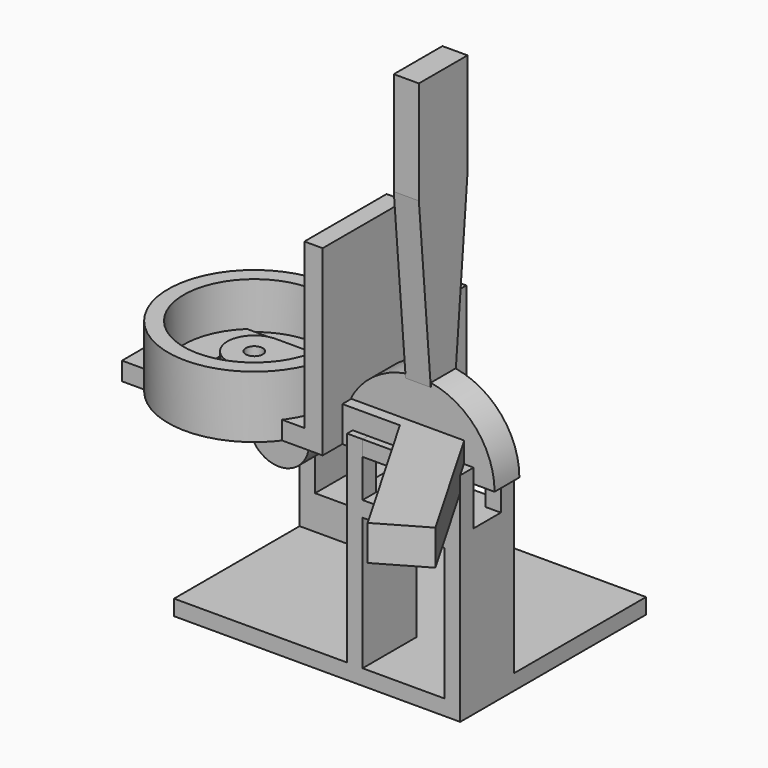
from build123d import *

# Parameters (mm, degrees)
CYLINDER_R                = 1.575
CYLINDER_DEPTH            = 10
CYLINDER001_W             = 12.55
CYLINDER001_H             = 5.1
CYLINDER001_ANGLE         = 180
BOX002_W                  = 4.125
BOX002_H                  = 10
BOX002_DEPTH              = 45
BOX002_ROLL_ANGLE         = -5.000003
BOX002_PLACEMENT_ANGLE    = 180
BOX001_W                  = 4.125
BOX001_H                  = 10
BOX001_DEPTH              = 45
BOX001_PLACEMENT_ANGLE    = 5
BOX_W                     = 4.125
BOX_H                     = 10
BOX_DEPTH                 = 45
CYLINDER006_R             = 0.5
CYLINDER006_DEPTH         = 8.95
CYLINDER004_R             = 2.415
CYLINDER004_DEPTH         = 3.2
CYLINDER002_R             = 11.6
CYLINDER002_DEPTH         = 7.65
BOX003_W                  = 9.93
BOX003_H                  = 4.475
BOX003_DEPTH              = 8
CYLINDER005_R             = 4.965
CYLINDER005_DEPTH         = 4.475
CYLINDER003_R             = 14.15
CYLINDER003_DEPTH         = 10.2
BOX012_W                  = 13.5
BOX012_H                  = 11.1
BOX012_DEPTH              = 2.55
CYLINDER007_R             = 0.5
CYLINDER007_DEPTH         = 12.4
CYLINDER008_R             = 0.5
CYLINDER008_DEPTH         = 12.4
CYLINDER009_R             = 3
CYLINDER009_DEPTH         = 7.65
BOX013_W                  = 18.6
BOX013_H                  = 5.6
BOX013_DEPTH              = 11.35
BOX010_W                  = 2.55
BOX010_H                  = 11.1
BOX010_DEPTH              = 33.15
BOX008_W                  = 13.5
BOX008_H                  = 11.1
BOX008_DEPTH              = 2.55
BOX009_W                  = 47.05
BOX009_H                  = 38.2
BOX009_DEPTH              = 2.55
BOX007_W                  = 12.4
BOX007_H                  = 12.4
BOX007_DEPTH              = 5.6
BOX006_W                  = 2.55
BOX006_H                  = 12.4
BOX006_DEPTH              = 35.5
BOX005_W                  = 2.55
BOX005_H                  = 12.4
BOX005_DEPTH              = 35.5
BOX004_W                  = 12.4
BOX004_H                  = 12.4
BOX004_DEPTH              = 5.6
BOX011_W                  = 2.55
BOX011_H                  = 11.1
BOX011_DEPTH              = 33.15
CYLINDER013_R             = 5.95
CYLINDER013_DEPTH         = 3
BOX016_W                  = 3
BOX016_H                  = 16.9
BOX016_DEPTH              = 30
BOX015_W                  = 30
BOX015_H                  = 16.9
BOX015_DEPTH              = 3
CYLINDER014_R             = 4.4
CYLINDER014_DEPTH         = 5.8
BOX018_W                  = 30
BOX018_H                  = 4.4
BOX018_DEPTH              = 5.8
BOX017_W                  = 30
BOX017_H                  = 4.4
BOX017_DEPTH              = 5.8
FUSION005_PLACEMENT_ANGLE = 300
CYLINDER010_R             = 2.9
CYLINDER010_DEPTH         = 3.8
CYLINDER012_R             = 1.4
CYLINDER012_DEPTH         = 5.8
CYLINDER011_R             = 4.4
CYLINDER011_DEPTH         = 5.8
BOX014_W                  = 30
BOX014_H                  = 8.8
BOX014_DEPTH              = 5.8


with BuildPart() as palancahueco:
    # Cylinder → Cylinder (new body)
    with BuildSketch(Plane.XY):
        Circle(CYLINDER_R)
    extrude(amount=CYLINDER_DEPTH)


with BuildPart() as obj1:
    # Cylinder001 → Cylinder001 (revolve)
    with BuildSketch(Plane(origin=(0, 2.55, 0), x_dir=(1, 0, 0), z_dir=(0, 0, -1))):
        with Locations((6.275, 2.55)):
            Rectangle(CYLINDER001_W, CYLINDER001_H)
    revolve(axis=Axis((0, 2.55, 0), (0, -1, 0)), revolution_arc=CYLINDER001_ANGLE)


with BuildPart() as obj2:
    # Box002 → Box002 (new body)
    with BuildSketch(Plane.XY):
        with Locations((2.0625, 5)):
            Rectangle(BOX002_W, BOX002_H)
    extrude(amount=BOX002_DEPTH)


with BuildPart() as obj2_1:
    # Box002 roll: moved
    add(obj2.part.rotate(Axis((0, 0, 0), (1, 0, 0)), BOX002_ROLL_ANGLE))


with BuildPart() as obj2_2:
    # Box002 placement: moved
    add(obj2_1.part.moved(Location((2.0625, -2.55, 11.7))).rotate(Axis((2.0625, -2.55, 11.7), (0, 0, 1)), BOX002_PLACEMENT_ANGLE))


with BuildPart() as obj3:
    # Box001 → Box001 (new body)
    with BuildSketch(Plane.XY):
        with Locations((2.0625, 5)):
            Rectangle(BOX001_W, BOX001_H)
    extrude(amount=BOX001_DEPTH)


with BuildPart() as obj3_1:
    # Box001 placement: moved
    add(obj3.part.moved(Location((-2.0625, 2.55, 11.7))).rotate(Axis((-2.0625, 2.55, 11.7), (-1, 0, 0)), BOX001_PLACEMENT_ANGLE))


with BuildPart() as palanca:
    # Box → Box (new body)
    with BuildSketch(Plane(origin=(-2.0625, -5, 11.7), x_dir=(1, 0, 0), z_dir=(0, 0, 1))):
        with Locations((2.0625, 5)):
            Rectangle(BOX_W, BOX_H)
    extrude(amount=BOX_DEPTH)

    # Cut: cut obj3
    add(obj3_1.part, mode=Mode.SUBTRACT)

    # Cut001: cut obj2
    add(obj2_2.part, mode=Mode.SUBTRACT)

    # Fusion: union obj1
    add(obj1.part)

    # Cut002: cut PalancaHueco
    add(palancahueco.part, mode=Mode.SUBTRACT)


with BuildPart() as palanca_1:
    # Cut002 placement: moved
    add(palanca.part.moved(Location((29, 0, 0))))


with BuildPart() as obj4:
    # Cylinder006 → Cylinder006 (new body)
    with BuildSketch(Plane(origin=(0, 9.55, -8), x_dir=(1, 0, 0), z_dir=(0, -1, 0))):
        Circle(CYLINDER006_R)
    extrude(amount=CYLINDER006_DEPTH)


with BuildPart() as motorinterior:
    # Cylinder004 → Cylinder004 (new body)
    with BuildSketch(Plane(origin=(0, 9.55, -8), x_dir=(1, 0, 0), z_dir=(0, -1, 0))):
        Circle(CYLINDER004_R)
    extrude(amount=CYLINDER004_DEPTH)


with BuildPart() as obj5:
    # Cylinder002 → Cylinder002 (new body)
    with BuildSketch(Plane.XY.offset(2.55)):
        Circle(CYLINDER002_R)
    extrude(amount=CYLINDER002_DEPTH)


with BuildPart() as radio:
    # Box003 → Box003 (new body)
    with BuildSketch(Plane(origin=(-4.965, 5.075, -8), x_dir=(1, 0, 0), z_dir=(0, 0, 1))):
        with Locations((4.965, 2.2375)):
            Rectangle(BOX003_W, BOX003_H)
    extrude(amount=BOX003_DEPTH)


with BuildPart() as motorexterior:
    # Cylinder005 → Cylinder005 (new body)
    with BuildSketch(Plane(origin=(0, 9.55, -8), x_dir=(1, 0, 0), z_dir=(0, -1, 0))):
        Circle(CYLINDER005_R)
    extrude(amount=CYLINDER005_DEPTH)


with BuildPart() as obj6:
    # Cylinder003 → Cylinder003 (new body)
    with BuildSketch(Plane.XY):
        Circle(CYLINDER003_R)
    extrude(amount=CYLINDER003_DEPTH)

    # Fusion001: union Radio, MotorExterior
    add(radio.part)
    add(motorexterior.part)

    # Cut003: cut obj5
    add(obj5.part, mode=Mode.SUBTRACT)

    # Cut004: cut MotorInterior
    add(motorinterior.part, mode=Mode.SUBTRACT)

    # Cut005: cut obj4
    add(obj4.part, mode=Mode.SUBTRACT)


with BuildPart() as baseswitch001:
    # Box012 → Box012 (new body)
    with BuildSketch(Plane(origin=(22.25, -5.55, 0), x_dir=(1, 0, 0), z_dir=(0, 0, 1))):
        with Locations((6.75, 5.55)):
            Rectangle(BOX012_W, BOX012_H)
    extrude(amount=BOX012_DEPTH)


with BuildPart() as obj7:
    # Cylinder007 → Cylinder007 (new body)
    with BuildSketch(Plane(origin=(0, 32.65, -27.8), x_dir=(1, 0, 0), z_dir=(0, -1, 0))):
        Circle(CYLINDER007_R)
    extrude(amount=CYLINDER007_DEPTH)


with BuildPart() as obj8:
    # Cylinder008 → Cylinder008 (new body)
    with BuildSketch(Plane(origin=(0, 32.65, 2.1), x_dir=(1, 0, 0), z_dir=(0, -1, 0))):
        Circle(CYLINDER008_R)
    extrude(amount=CYLINDER008_DEPTH)


with BuildPart() as taladroswitch:
    # Cylinder009 → Cylinder009 (new body)
    with BuildSketch(Plane(origin=(29, 0, -8.8), x_dir=(1, 0, 0), z_dir=(0, 0, 1))):
        Circle(CYLINDER009_R)
    extrude(amount=CYLINDER009_DEPTH)


with BuildPart() as obj9:
    # Box013 → Box013 (new body)
    with BuildSketch(Plane(origin=(19.7, -2.8, -6.25), x_dir=(1, 0, 0), z_dir=(0, 0, 1))):
        with Locations((9.3, 2.8)):
            Rectangle(BOX013_W, BOX013_H)
    extrude(amount=BOX013_DEPTH)


with BuildPart() as obj10:
    # Box010 → Box010 (new body)
    with BuildSketch(Plane(origin=(19.7, -5.55, -30.6), x_dir=(1, 0, 0), z_dir=(0, 0, 1))):
        with Locations((1.275, 5.55)):
            Rectangle(BOX010_W, BOX010_H)
    extrude(amount=BOX010_DEPTH)


with BuildPart() as baseswitch:
    # Box008 → Box008 (new body)
    with BuildSketch(Plane(origin=(22.25, -5.55, -8.8), x_dir=(1, 0, 0), z_dir=(0, 0, 1))):
        with Locations((6.75, 5.55)):
            Rectangle(BOX008_W, BOX008_H)
    extrude(amount=BOX008_DEPTH)


with BuildPart() as suelo:
    # Box009 → Box009 (new body)
    with BuildSketch(Plane(origin=(-8.75, 32.65, -30.6), x_dir=(1, 0, 0), z_dir=(0, 0, -1))):
        with Locations((23.525, 19.1)):
            Rectangle(BOX009_W, BOX009_H)
    extrude(amount=BOX009_DEPTH)


with BuildPart() as topservo:
    # Box007 → Box007 (new body)
    with BuildSketch(Plane(origin=(-6.2, 20.25, -0.7), x_dir=(1, 0, 0), z_dir=(0, 0, 1))):
        with Locations((6.2, 6.2)):
            Rectangle(BOX007_W, BOX007_H)
    extrude(amount=BOX007_DEPTH)


with BuildPart() as obj11:
    # Box006 → Box006 (new body)
    with BuildSketch(Plane(origin=(6.2, 20.25, -30.6), x_dir=(1, 0, 0), z_dir=(0, 0, 1))):
        with Locations((1.275, 6.2)):
            Rectangle(BOX006_W, BOX006_H)
    extrude(amount=BOX006_DEPTH)


with BuildPart() as obj12:
    # Box005 → Box005 (new body)
    with BuildSketch(Plane(origin=(-8.75, 20.25, -30.6), x_dir=(1, 0, 0), z_dir=(0, 0, 1))):
        with Locations((1.275, 6.2)):
            Rectangle(BOX005_W, BOX005_H)
    extrude(amount=BOX005_DEPTH)


with BuildPart() as baseservo:
    # Box004 → Box004 (new body)
    with BuildSketch(Plane(origin=(-6.2, 20.25, -30.6), x_dir=(1, 0, 0), z_dir=(0, 0, 1))):
        with Locations((6.2, 6.2)):
            Rectangle(BOX004_W, BOX004_H)
    extrude(amount=BOX004_DEPTH)


with BuildPart() as obj13:
    # Box011 → Box011 (new body)
    with BuildSketch(Plane(origin=(35.75, -5.55, -30.6), x_dir=(1, 0, 0), z_dir=(0, 0, 1))):
        with Locations((1.275, 5.55)):
            Rectangle(BOX011_W, BOX011_H)
    extrude(amount=BOX011_DEPTH)

    # Fusion002: union obj10, BaseSwitch, Suelo, TopServo, obj11, obj12, BaseServo
    add(obj10.part)
    add(baseswitch.part)
    add(suelo.part)
    add(topservo.part)
    add(obj11.part)
    add(obj12.part)
    add(baseservo.part)

    # Cut006: cut obj9
    add(obj9.part, mode=Mode.SUBTRACT)

    # Cut007: cut TaladroSwitch
    add(taladroswitch.part, mode=Mode.SUBTRACT)

    # Cut008: cut obj8
    add(obj8.part, mode=Mode.SUBTRACT)

    # Cut009: cut obj7
    add(obj7.part, mode=Mode.SUBTRACT)


with BuildPart() as obj14:
    # Cylinder013 → Cylinder013 (new body)
    with BuildSketch(Plane.XY):
        Circle(CYLINDER013_R)
    extrude(amount=CYLINDER013_DEPTH)


with BuildPart() as obj15:
    # Box016 → Box016 (new body)
    with BuildSketch(Plane(origin=(15, -8.45, 0), x_dir=(1, 0, 0), z_dir=(0, 0, 1))):
        with Locations((1.5, 8.45)):
            Rectangle(BOX016_W, BOX016_H)
    extrude(amount=BOX016_DEPTH)


with BuildPart() as obj16:
    # Box015 → Box015 (new body)
    with BuildSketch(Plane(origin=(-15, -8.45, 0), x_dir=(1, 0, 0), z_dir=(0, 0, 1))):
        with Locations((15, 8.45)):
            Rectangle(BOX015_W, BOX015_H)
    extrude(amount=BOX015_DEPTH)

    # Fusion004: union obj15
    add(obj15.part)

    # Cut012: cut obj14
    add(obj14.part, mode=Mode.SUBTRACT)


with BuildPart() as obj17:
    # Cylinder014 → Cylinder014 (new body)
    with BuildSketch(Plane(origin=(30, 0, 0), x_dir=(1, 0, 0), z_dir=(0, 0, 1))):
        Circle(CYLINDER014_R)
    extrude(amount=CYLINDER014_DEPTH)


with BuildPart() as obj18:
    # Box018 → Box018 (new body)
    with BuildSketch(Plane(origin=(0, 0, 5.8), x_dir=(1, 0, 0), z_dir=(0, 0, -1))):
        with Locations((15, 2.2)):
            Rectangle(BOX018_W, BOX018_H)
    extrude(amount=BOX018_DEPTH)


with BuildPart() as obj19:
    # Box017 → Box017 (new body)
    with BuildSketch(Plane.XY):
        with Locations((15, 2.2)):
            Rectangle(BOX017_W, BOX017_H)
    extrude(amount=BOX017_DEPTH)

    # Fusion005: union obj18
    add(obj18.part)


with BuildPart() as obj19_1:
    # Fusion005 placement: moved
    add(obj19.part.moved(Location((30, 0, 0))).rotate(Axis((30, 0, 0), (0, 0, 1)), FUSION005_PLACEMENT_ANGLE))


with BuildPart() as interiorservogrande:
    # Cylinder010 → Cylinder010 (new body)
    with BuildSketch(Plane.XY):
        Circle(CYLINDER010_R)
    extrude(amount=CYLINDER010_DEPTH)


with BuildPart() as taladroservogrande:
    # Cylinder012 → Cylinder012 (new body)
    with BuildSketch(Plane.XY):
        Circle(CYLINDER012_R)
    extrude(amount=CYLINDER012_DEPTH)


with BuildPart() as exteriorservogrande:
    # Cylinder011 → Cylinder011 (new body)
    with BuildSketch(Plane.XY):
        Circle(CYLINDER011_R)
    extrude(amount=CYLINDER011_DEPTH)


with BuildPart() as obj20:
    # Box014 → Box014 (new body)
    with BuildSketch(Plane(origin=(0, -4.4, 0), x_dir=(1, 0, 0), z_dir=(0, 0, 1))):
        with Locations((15, 4.4)):
            Rectangle(BOX014_W, BOX014_H)
    extrude(amount=BOX014_DEPTH)

    # Fusion003: union ExteriorServoGrande
    add(exteriorservogrande.part)

    # Cut010: cut TaladroServoGrande
    add(taladroservogrande.part, mode=Mode.SUBTRACT)

    # Cut011: cut InteriorServoGrande
    add(interiorservogrande.part, mode=Mode.SUBTRACT)

    # Fusion006: union obj17, obj19
    add(obj17.part)
    add(obj19_1.part)


solid = Compound([palanca_1.part, obj6.part, baseswitch001.part, obj13.part, obj16.part, obj20.part])
